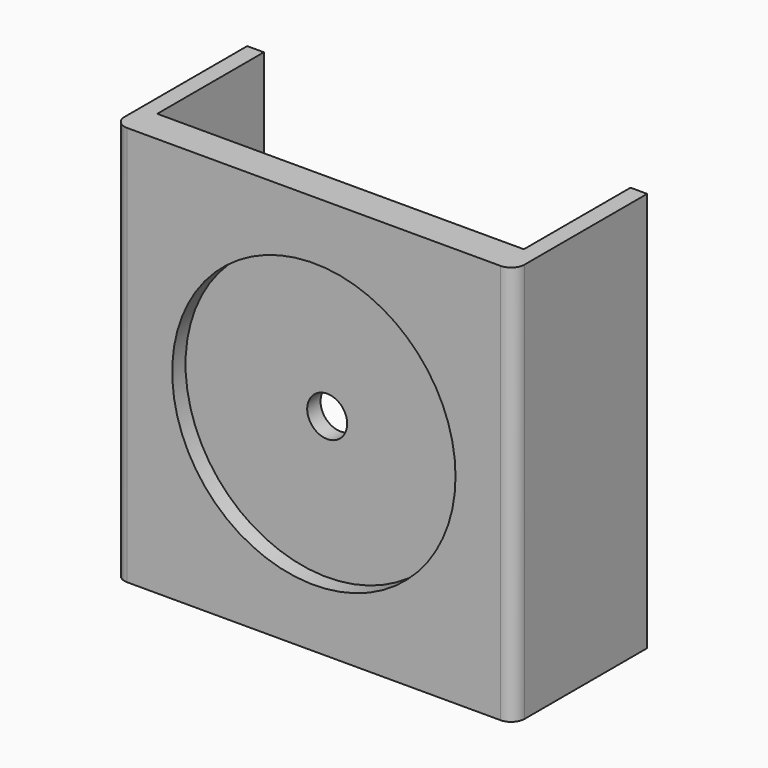
from build123d import *

# Parameters (mm, degrees)
F0_W     = 152.4
F0_H     = 152.4
F1_DEPTH = 12.7
F2_R     = 53.975
F3_DEPTH = 6.35
F4_W     = 6.35
F4_H     = 50.8
F5_DEPTH = 152.4
F6_R     = 7.62
F7_DEPTH = 25.4
F8_R     = 5.08
F9_R     = 5.08


with BuildPart() as f1:
    # F0 (on Front) → F1 (new body)
    with BuildSketch(Plane.XZ):
        with Locations((-76.2, 76.2)):
            Rectangle(F0_W, F0_H)
    extrude(amount=F1_DEPTH)

    # F2 (on face) → F3 (cut)
    with BuildSketch(Plane.XZ.offset(12.7)):
        with Locations((-76.2, 76.2)):
            Circle(F2_R)
    extrude(amount=-F3_DEPTH, mode=Mode.SUBTRACT)

    # F4 (on face) → F5 (join)
    with BuildSketch(Plane(origin=(0, 0, 0), x_dir=(1, 0, 0), z_dir=(0, 0, -1))):
        with Locations((-149.225, -25.4)):
            Rectangle(F4_W, F4_H)
        with Locations((-3.175, -25.4)):
            Rectangle(F4_W, F4_H)
    extrude(amount=-F5_DEPTH)

    # F6 (on face) → F7 (cut)
    with BuildSketch(Plane.XZ.offset(6.35)):
        with Locations((-76.2, 76.2)):
            Circle(F6_R)
    extrude(amount=-F7_DEPTH, mode=Mode.SUBTRACT)

    # F8
    f8_edges = [f1.edges().sort_by_distance(p)[0] for p in [
        (-152.4, -12.7, 76.2),
    ]]
    fillet(f8_edges, radius=F8_R)

    # F9
    f9_edges = [f1.edges().sort_by_distance(p)[0] for p in [
        (0, -12.7, 76.2),
    ]]
    fillet(f9_edges, radius=F9_R)


solid = f1.part
